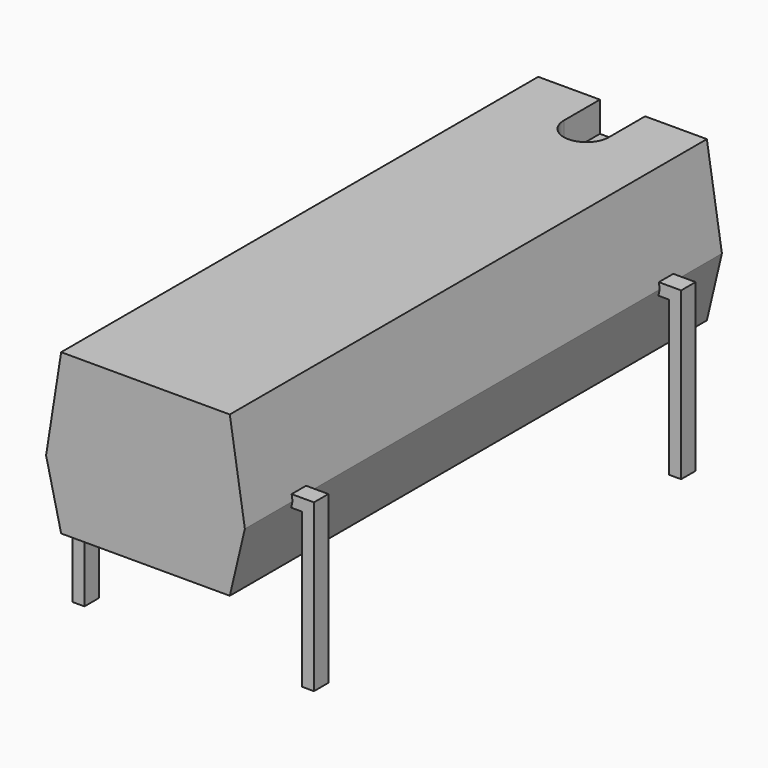
from build123d import *

# Parameters (mm, degrees)
PAD001_DEPTH = 0.3
PAD002_DEPTH = 0.3
PAD_DEPTH    = 9.9
POCKET_DEPTH = 1


with BuildPart() as pad001:
    # Sketch001 → Pad001 (new body, symmetric)
    with BuildSketch(Plane.XZ):
        Polygon((-0.2, -3), (0.2, -3), (0.2, 2.12), (7.42, 2.12), (7.42, -3), (7.82, -3), (7.82, 2.52), (-0.2, 2.52), align=None)
    extrude(amount=PAD001_DEPTH, both=True)


with BuildPart() as pad002:
    # Sketch002 → Pad002 (new body, symmetric)
    with BuildSketch(Plane.XZ.offset(15.24)):
        Polygon((-0.2, -3), (0.2, -3), (0.2, 2.12), (7.42, 2.12), (7.42, -3), (7.82, -3), (7.82, 2.52), (-0.2, 2.52), align=None)
    extrude(amount=PAD002_DEPTH, both=True)


with BuildPart() as pocket:
    # Sketch → Pad (new body, symmetric)
    with BuildSketch(Plane.XZ.offset(7.62)):
        Polygon((1.01, 0.2), (6.61, 0.2), (7.11, 2.32), (6.61, 5.5), (1.01, 5.5), (0.51, 2.32), align=None)
    extrude(amount=PAD_DEPTH, both=True)

    # Sketch003 → Pocket (cut)
    with BuildSketch(Plane(origin=(0, -7.62, 5.5), x_dir=(-1, 0, 0), z_dir=(0, 0, 1))):
        with BuildLine():
            ThreePointArc((-3.06, -8.4), (-3.81, -7.65), (-4.56, -8.4))
            Line((-4.56, -8.4), (-4.56, -9.9))
            Line((-4.56, -9.9), (-3.06, -9.9))
            Line((-3.06, -9.9), (-3.06, -8.4))
        make_face()
    extrude(amount=-POCKET_DEPTH, mode=Mode.SUBTRACT)


solid = Compound([pad001.part, pad002.part, pocket.part])
